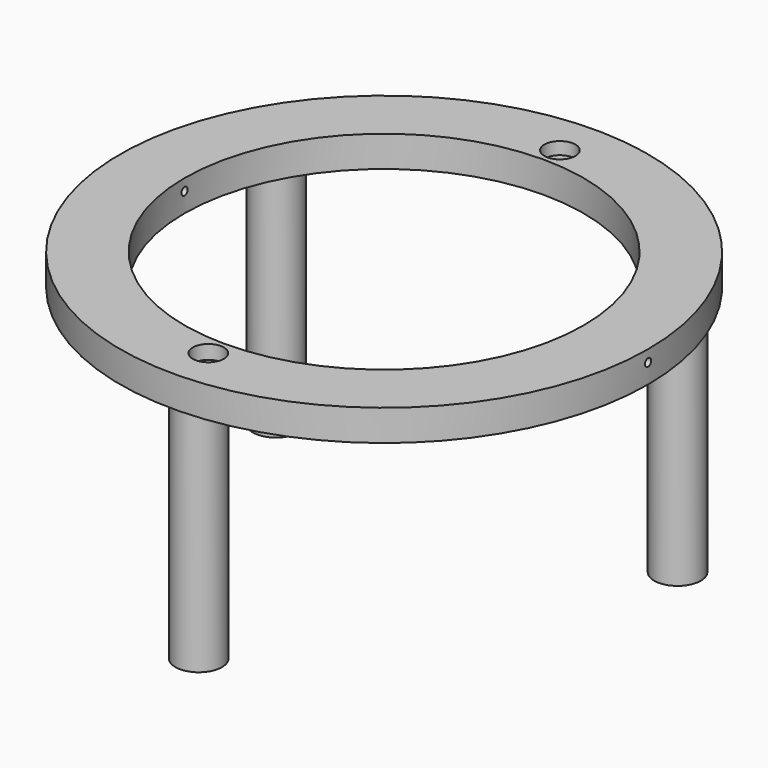
from build123d import *

# Parameters (mm, degrees)
F0_R        = 170
F0_R_2      = 128.5
F1_DEPTH    = 7.5
F1_FACE_R   = 170
F1_FACE_R_2 = 128.5
F2_DEPTH    = 12.5
F3_R        = 15
F4_DEPTH    = 150
F5_R        = 10
F6_DEPTH    = 8
F7_DEPTH    = 9
F8_W        = 515.232772
F8_H        = 2.5


with BuildPart() as f1:
    # F0 (on Top) → F1 (new body)
    with BuildSketch(Plane.XY):
        Circle(F0_R)
        Circle(F0_R_2, mode=Mode.SUBTRACT)
    extrude(amount=F1_DEPTH)

    # F1_face (on face) → F2 (join)
    with BuildSketch(Plane(origin=(0, 0, 0), x_dir=(1, 0, 0), z_dir=(0, 0, -1))):
        Circle(F1_FACE_R)
        Circle(F1_FACE_R_2, mode=Mode.SUBTRACT)
    extrude(amount=F2_DEPTH)

    # F3 (on face) → F4 (join)
    with BuildSketch(Plane(origin=(0, 0, -12.5), x_dir=(1, 0, 0), z_dir=(0, 0, -1))):
        with Locations((0, 149.25)):
            Circle(F3_R)
        with Locations((129.254292, -74.625)):
            Circle(F3_R)
        with Locations((-129.254292, -74.625)):
            Circle(F3_R)
    extrude(amount=F4_DEPTH)

    # F5 (on face) → F6 (cut)
    with BuildSketch(Plane.XY.offset(7.5)):
        with Locations((0, 141.5)):
            Circle(F5_R)
    extrude(amount=-F6_DEPTH, mode=Mode.SUBTRACT)

    # F5 (on face) → F7 (cut)
    with BuildSketch(Plane.XY.offset(7.5)):
        with Locations((0, -141.5)):
            Circle(F5_R)
    extrude(amount=-F7_DEPTH, mode=Mode.SUBTRACT)

    # F8 (on Top) → F9 (revolve, cut)
    with BuildSketch(Plane.XY):
        with Locations((21.541521, 1.25)):
            Rectangle(F8_W, F8_H)
    revolve(axis=Axis((21.541521, 0, 0), (1, 0, 0)), mode=Mode.SUBTRACT)


solid = f1.part
